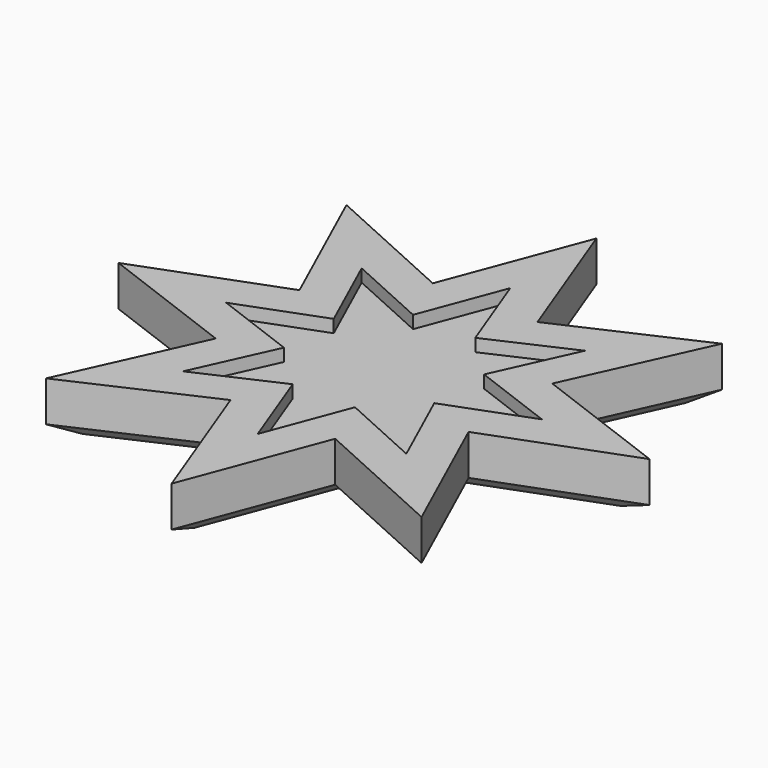
from build123d import *

# Parameters (mm, degrees)
F1_DEPTH = 2
F2_T     = -1.5
F3_SIZE  = 0.4


with BuildPart() as f1:
    # F0 (on Top) → F1 (new body)
    with BuildSketch(Plane.XY):
        Polygon((0, 10.5), (-2.0710678119, 5), (-7.4246212025, 7.4246212025), (-5, 2.0710678119), (-10.5, 0), (-5, -2.0710678119), (-7.4246212025, -7.4246212025), (-2.0710678119, -5), (0, -10.5), (2.0710678119, -5), (7.4246212025, -7.4246212025), (5, -2.0710678119), (10.5, 0), (5, 2.0710678119), (7.4246212025, 7.4246212025), (2.0710678119, 5), align=None)
    extrude(amount=F1_DEPTH)

    # F2
    f2_openings = [f1.faces().sort_by_distance(p)[0] for p in [
        (0, 0, 2),
    ]]
    offset(amount=F2_T, openings=f2_openings, kind=Kind.INTERSECTION)

    # F3
    f3_edges = [f1.edges().sort_by_distance(p)[0] for p in [
        (6.212311, -4.747845, 0),
        (7.75, -1.035534, 0),
        (7.75, 1.035534, 0),
        (6.212311, 4.747845, 0),
        (4.747845, 6.212311, 0),
        (1.035534, 7.75, 0),
        (-1.035534, 7.75, 0),
        (-4.747845, 6.212311, 0),
        (-6.212311, 4.747845, 0),
        (-7.75, 1.035534, 0),
        (-7.75, -1.035534, 0),
        (-6.212311, -4.747845, 0),
        (-4.747845, -6.212311, 0),
        (-1.035534, -7.75, 0),
        (1.035534, -7.75, 0),
        (4.747845, -6.212311, 0),
    ]]
    chamfer(f3_edges, length=F3_SIZE)


solid = f1.part
